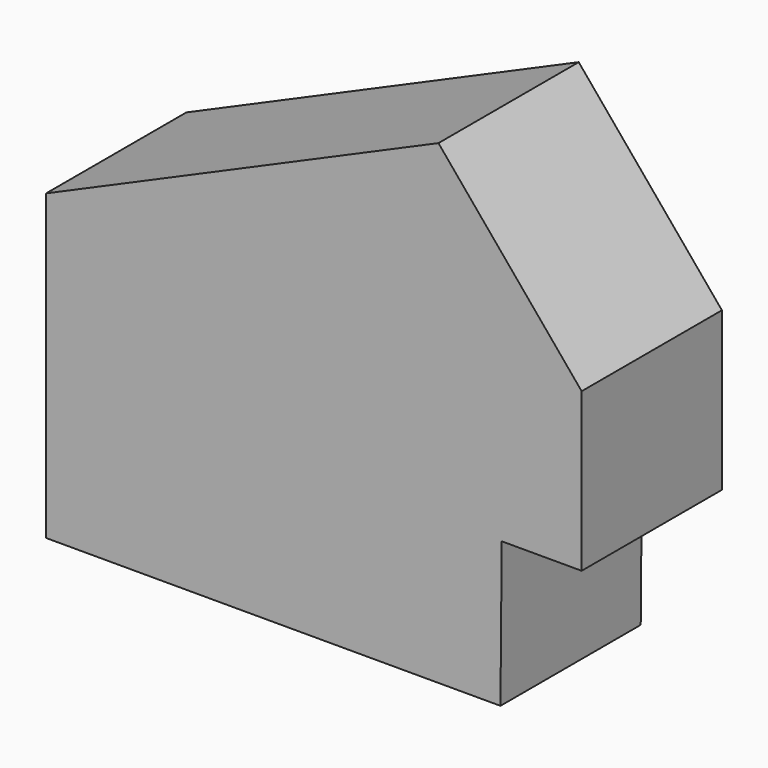
from build123d import *

# Parameters (mm, degrees)
F1_DEPTH = 38.1


with BuildPart() as f1:
    # F0 (on Front) → F1 (new body)
    with BuildSketch(Plane.XZ):
        Polygon((-53.236827, 22.130426), (-53.236827, -43.796577), (45.498919, -43.796577), (45.768753, -12.2259), (45.808434, -7.583153), (61.284252, 7.273637), (15.475824, -7.583153), (15.475824, -29.249305), (-37.761007, -29.249305), (-37.761007, 22.130426), (63.141361, 22.130426), (32.025633, 59.471648), align=None)
        Polygon((45.808434, -7.583153), (45.768753, -12.2259), (63.141361, -12.2259), (63.141361, 22.130426), (-37.761007, 22.130426), (-37.761007, -29.249305), (15.475824, -29.249305), (15.475824, -7.583153), (61.284252, 7.273637), align=None)
    extrude(amount=F1_DEPTH)


solid = f1.part
